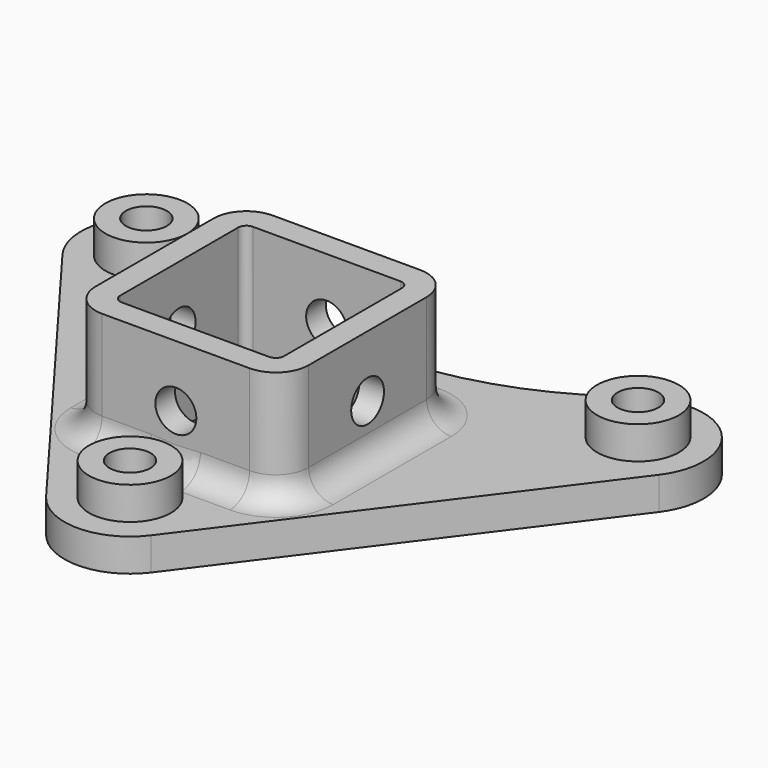
from build123d import *

# Parameters (mm, degrees)
SKETCH095_R           = 2.5
PAD033_DEPTH          = 4
PAD034_DEPTH          = 14
SKETCH097_R           = 2.5
POCKET029_DEPTH       = 4.5
POLARPATTERN017_COUNT = 4
SKETCH098_R           = 5
SKETCH098_R_2         = 2.5
PAD035_DEPTH          = 4
FILLET006_R           = 3


with BuildPart() as part:
    # Sketch095 → Pad033 (new body)
    with BuildSketch(Plane.XY):
        with BuildLine():
            Line((36.4, 15.2), (6.4, -24.8))
            ThreePointArc((-6.4, -24.8), (0, -28), (6.4, -24.8))
            Line((-6.4, -24.8), (-36.4, 15.2))
            ThreePointArc((-25.905574, 26.872821), (-35.949169, 25.348588), (-36.4, 15.2))
            Line((-25.905574, 26.872821), (-20.472131, 23.635893))
            ThreePointArc((-20.472131, 23.635893), (0, 18), (20.472131, 23.635893))
            Line((25.905574, 26.872821), (20.472131, 23.635893))
            ThreePointArc((36.4, 15.2), (35.949169, 25.348588), (25.905574, 26.872821))
        make_face()
        with Locations((30, 20)):
            Circle(SKETCH095_R, mode=Mode.SUBTRACT)
        with Locations((-30, 20)):
            Circle(SKETCH095_R, mode=Mode.SUBTRACT)
        with Locations((0, -20)):
            Circle(SKETCH095_R, mode=Mode.SUBTRACT)
        with BuildLine():
            Line((-9, -10), (9, -10))
            ThreePointArc((9, -10), (9.707107, -9.707107), (10, -9))
            Line((10, -9), (10, 9))
            ThreePointArc((10, 9), (9.707107, 9.707107), (9, 10))
            Line((9, 10), (-9, 10))
            ThreePointArc((-9, 10), (-9.707107, 9.707107), (-10, 9))
            Line((-10, 9), (-10, -9))
            ThreePointArc((-10, -9), (-9.707107, -9.707107), (-9, -10))
        make_face(mode=Mode.SUBTRACT)
    extrude(amount=PAD033_DEPTH)

    # Sketch096 (on Face21 of Pad033) → Pad034 (join)
    with BuildSketch(Plane.XY.offset(4)):
        with BuildLine():
            Line((-9, 13), (9, 13))
            ThreePointArc((13, 9), (11.828427, 11.828427), (9, 13))
            Line((13, 9), (13, -9))
            ThreePointArc((9, -13), (11.828427, -11.828427), (13, -9))
            Line((9, -13), (-9, -13))
            ThreePointArc((-13, -9), (-11.828427, -11.828427), (-9, -13))
            Line((-13, -9), (-13, 9))
            ThreePointArc((-9, 13), (-11.828427, 11.828427), (-13, 9))
        make_face()
        with BuildLine():
            Line((-9, -10), (9, -10))
            ThreePointArc((9, -10), (9.707107, -9.707107), (10, -9))
            Line((10, -9), (10, 9))
            ThreePointArc((10, 9), (9.707107, 9.707107), (9, 10))
            Line((9, 10), (-9, 10))
            ThreePointArc((-9, 10), (-9.707107, 9.707107), (-10, 9))
            Line((-10, 9), (-10, -9))
            ThreePointArc((-10, -9), (-9.707107, -9.707107), (-9, -10))
        make_face(mode=Mode.SUBTRACT)
    extrude(amount=PAD034_DEPTH)

    # Sketch097 → Pocket029 (cut, symmetric)
    with BuildSketch(Plane(origin=(0, 13, 0), x_dir=(-1, 0, 0), z_dir=(0, 1, 0))):
        with Locations((0, 10.5)):
            Circle(SKETCH097_R)
    pocket029 = extrude(amount=POCKET029_DEPTH, both=True, mode=Mode.SUBTRACT)

    # PolarPattern017: Pocket029 ×4 about axis
    polarpattern017_axis = Axis((0, 0, 0), (0, 0, 1))
    for i in range(1, POLARPATTERN017_COUNT):
        add(pocket029.rotate(polarpattern017_axis, i * 360 / POLARPATTERN017_COUNT), mode=Mode.SUBTRACT)

    # Sketch098 (on Face1 of PolarPattern017) → Pad035 (join)
    with BuildSketch(Plane.XY.offset(4)):
        with Locations((30, 20)):
            Circle(SKETCH098_R)
        with Locations((30, 20)):
            Circle(SKETCH098_R_2, mode=Mode.SUBTRACT)
        with Locations((-30, 20)):
            Circle(SKETCH098_R)
        with Locations((-30, 20)):
            Circle(SKETCH098_R_2, mode=Mode.SUBTRACT)
        with Locations((0, -20)):
            Circle(SKETCH098_R)
        with Locations((0, -20)):
            Circle(SKETCH098_R_2, mode=Mode.SUBTRACT)
    extrude(amount=PAD035_DEPTH)

    # Fillet006
    fillet006_edges = [part.edges().sort_by_distance(p)[0] for p in [
        (-11.828427, 11.828427, 4),
    ]]
    fillet(fillet006_edges, radius=FILLET006_R)


solid = part.part
